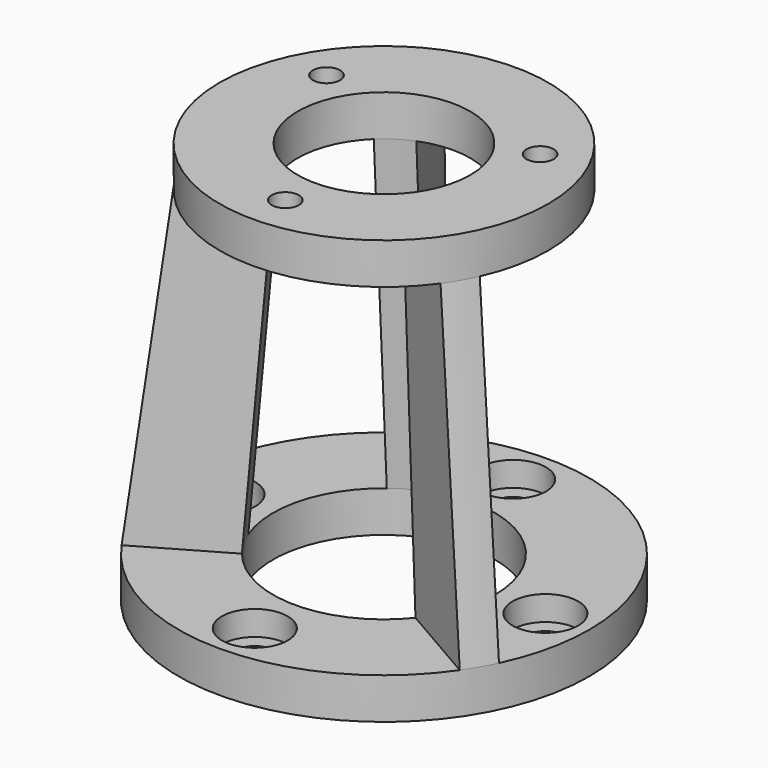
from build123d import *

# Parameters (mm, degrees)
F0_R     = 25
F0_R_2   = 2.15
F0_R_3   = 13.5
F1_DEPTH = 5
F2_R     = 4
F3_DEPTH = 3
F5_R     = 20
F5_R_2   = 1.65
F5_R_3   = 10.5
F6_DEPTH = 5
F7_R     = 2.9
F8_DEPTH = 2.3


with BuildPart() as f1:
    # F0 (on Top) → F1 (new body)
    with BuildSketch(Plane.XY):
        Circle(F0_R)
        with Locations((0, -19.65)):
            Circle(F0_R_2, mode=Mode.SUBTRACT)
        with Locations((-19.65, 0)):
            Circle(F0_R_2, mode=Mode.SUBTRACT)
        Circle(F0_R_3, mode=Mode.SUBTRACT)
        with Locations((19.65, 0)):
            Circle(F0_R_2, mode=Mode.SUBTRACT)
        with Locations((0, 19.65)):
            Circle(F0_R_2, mode=Mode.SUBTRACT)
    extrude(amount=F1_DEPTH)

    # F2 (on face) → F3 (cut)
    with BuildSketch(Plane.XY.offset(5)):
        with Locations((0, -19.65)):
            Circle(F2_R)
        with Locations((19.65, 0)):
            Circle(F2_R)
        with Locations((0, 19.65)):
            Circle(F2_R)
        with Locations((-19.65, 0)):
            Circle(F2_R)
    extrude(amount=-F3_DEPTH, mode=Mode.SUBTRACT)



with BuildPart() as f6:
    # F5 (on offset) → F6 (new body)
    with BuildSketch(Plane.XY.offset(44)):
        Circle(F5_R)
        with Locations((0, -15.011107)):
            Circle(F5_R_2, mode=Mode.SUBTRACT)
        with Locations((-13, 7.505553)):
            Circle(F5_R_2, mode=Mode.SUBTRACT)
        Circle(F5_R_3, mode=Mode.SUBTRACT)
        with Locations((13, 7.505553)):
            Circle(F5_R_2, mode=Mode.SUBTRACT)
    extrude(amount=F6_DEPTH)

    # F7 (on face) → F8 (cut)
    with BuildSketch(Plane(origin=(0, 0, 44), x_dir=(1, 0, 0), z_dir=(0, 0, -1))):
        with Locations((-13, -7.505553)):
            Circle(F7_R)
        with Locations((0, 15.011107)):
            Circle(F7_R)
        with Locations((13, -7.505553)):
            Circle(F7_R)
    extrude(amount=-F8_DEPTH, mode=Mode.SUBTRACT)


with BuildPart() as f1_1:
    add(f1.part)

    add(f6.part)  # F11 merges F6
    # F10 (on face) → F11 section 0
    with BuildSketch(Plane.XY.offset(5)):
        with BuildLine():
            ThreePointArc((12.562331, -4.943464), (11.691343, -6.75), (10.562331, -8.407566))
            Line((10.562331, -8.407566), (20.581242, -14.191987))
            ThreePointArc((20.581242, -14.191987), (21.650635, -12.5), (22.581242, -10.727885))
            Line((22.581242, -10.727885), (12.562331, -4.943464))
        make_face()
    # F9 (on face) → F11 section 1
    with BuildSketch(Plane(origin=(0, 0, 44), x_dir=(1, 0, 0), z_dir=(0, 0, -1))):
        with BuildLine():
            Line((9.926786, 3.421831), (18.233688, 8.217824))
            ThreePointArc((18.233688, 8.217824), (17.320508, 10), (16.233688, 11.681925))
            Line((16.233688, 11.681925), (7.926786, 6.885933))
            ThreePointArc((7.926786, 6.885933), (9.093267, 5.25), (9.926786, 3.421831))
        make_face()
    loft()

    # F9 (on face) → F12 section 0
    with BuildSketch(Plane(origin=(0, 0, 44), x_dir=(1, 0, 0), z_dir=(0, 0, -1))):
        with BuildLine():
            Line((-7.926786, 6.885933), (-16.233688, 11.681925))
            ThreePointArc((-16.233688, 11.681925), (-17.320508, 10), (-18.233688, 8.217824))
            Line((-18.233688, 8.217824), (-9.926786, 3.421831))
            ThreePointArc((-9.926786, 3.421831), (-9.093267, 5.25), (-7.926786, 6.885933))
        make_face()
    # F10 (on face) → F12 section 1
    with BuildSketch(Plane.XY.offset(5)):
        with BuildLine():
            ThreePointArc((-10.562331, -8.407566), (-11.691343, -6.75), (-12.562331, -4.943464))
            Line((-12.562331, -4.943464), (-22.581242, -10.727885))
            ThreePointArc((-22.581242, -10.727885), (-21.650635, -12.5), (-20.581242, -14.191987))
            Line((-20.581242, -14.191987), (-10.562331, -8.407566))
        make_face()
    loft()

    # F9 (on face) → F13 section 0
    with BuildSketch(Plane(origin=(0, 0, 44), x_dir=(1, 0, 0), z_dir=(0, 0, -1))):
        with BuildLine():
            Line((-7.287507, -7.559249), (-11.073882, -16.654403))
            ThreePointArc((-11.073882, -16.654403), (-9.345432, -17.682276), (-7.522499, -18.531379))
            Line((-7.522499, -18.531379), (-3.871069, -9.76037))
            ThreePointArc((-3.871069, -9.76037), (-5.686799, -8.826682), (-7.287507, -7.559249))
        make_face()
    # F10 (on face) → F13 section 1
    with BuildSketch(Plane.XY.offset(5)):
        with BuildLine():
            Line((-13.830633, 20.825792), (-8.221947, 10.707455))
            ThreePointArc((-8.221947, 10.707455), (-6.54493, 11.807366), (-4.723468, 12.646693))
            Line((-4.723468, 12.646693), (-10.332154, 22.76503))
            ThreePointArc((-10.332154, 22.76503), (-12.120241, 21.865493), (-13.830633, 20.825792))
        make_face()
    loft()


solid = f1_1.part
